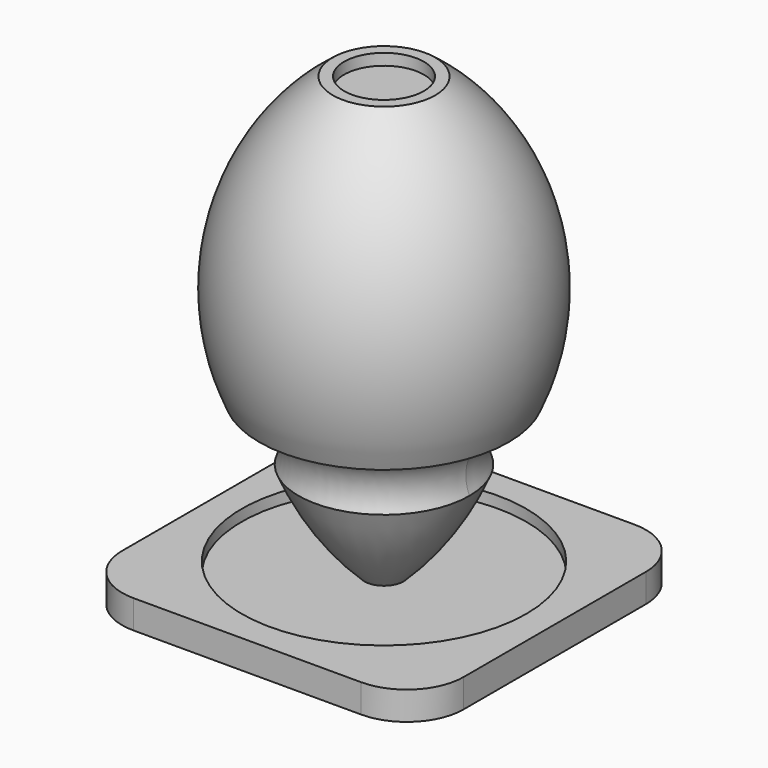
from build123d import *

# Parameters (mm, degrees)
F0_W     = 60
F0_H     = 60
F1_DEPTH = 5
F2_R     = 25
F3_DEPTH = 2
F4_R     = 10
F8_DEPTH = 1


with BuildPart() as f1:
    # F0 (on Top) → F1 (new body)
    with BuildSketch(Plane.XY):
        Rectangle(F0_W, F0_H)
    extrude(amount=F1_DEPTH)

    # F2 (on face) → F3 (cut)
    with BuildSketch(Plane.XY.offset(5)):
        Circle(F2_R)
    extrude(amount=-F3_DEPTH, mode=Mode.SUBTRACT)

    # F4
    f4_edges = [f1.edges().sort_by_distance(p)[0] for p in [
        (30, 30, 2.5),
        (-30, 30, 2.5),
        (30, -30, 2.5),
        (-30, -30, 2.5),
    ]]
    fillet(f4_edges, radius=F4_R)

    # F5 (on Front) → F6 (revolve)
    with BuildSketch(Plane.XZ):
        with BuildLine():
            Line((15, 20), (0, 20))
            Line((0, 20), (0, 0))
            ThreePointArc((0, 0), (8.770167, 9.047375), (15, 20))
        make_face()
        with BuildLine():
            Line((21.891709, 30.538945), (0, 30.538945))
            Line((0, 30.538945), (0, 20))
            Line((0, 20), (15, 20))
            ThreePointArc((15, 20), (15.595579, 27.133347), (21.891709, 30.538945))
        make_face()
        with BuildLine():
            Line((7, 78), (0, 78))
            Line((0, 78), (0, 30.538945))
            Line((0, 30.538945), (21.891709, 30.538945))
            ThreePointArc((21.891709, 30.538945), (24.177264, 57.545259), (9, 80))
            Line((9, 80), (7, 80))
            Line((7, 80), (7, 78))
        make_face()
    revolve(axis=Axis((0, 0, 40), (0, 0, -1)))

    # F7 (on Front) → F8 (join, symmetric)
    with BuildSketch(Plane.XZ):
        Polygon((-21.891709, 30.538945), (-15, 20), (0, 20), (0, 30.538945), align=None)
    extrude(amount=F8_DEPTH, both=True)


solid = f1.part
